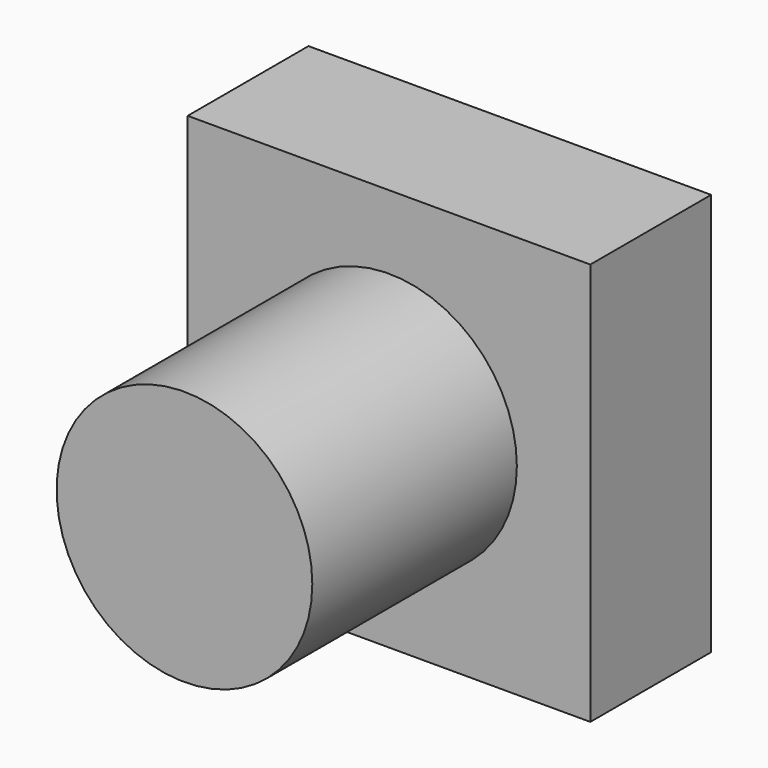
from build123d import *

# Parameters (mm, degrees)
F0_W     = 40
F0_H     = 40
F1_DEPTH = 15
F2_DEPTH = 15
F3_R     = 12.7
F4_DEPTH = 25.4


with BuildPart() as f1:
    # F0 (on Front) → F1 (new body)
    with BuildSketch(Plane.XZ):
        with Locations((-12.045931, 4.964564)):
            Rectangle(F0_W, F0_H)
    extrude(amount=F1_DEPTH)


with BuildPart() as f2:
    # F0 (on Front) → F2 (new body)
    with BuildSketch(Plane.XZ):
        with Locations((-12.045931, 4.964564)):
            Rectangle(F0_W, F0_H)
    extrude(amount=F2_DEPTH)


with BuildPart() as f4:
    # F3 (on face) → F4 (new body)
    with BuildSketch(Plane.XZ.offset(15)):
        with Locations((-12.045931, 4.964564)):
            Circle(F3_R)
    extrude(amount=F4_DEPTH)


solid = Compound([f1.part, f2.part, f4.part])
